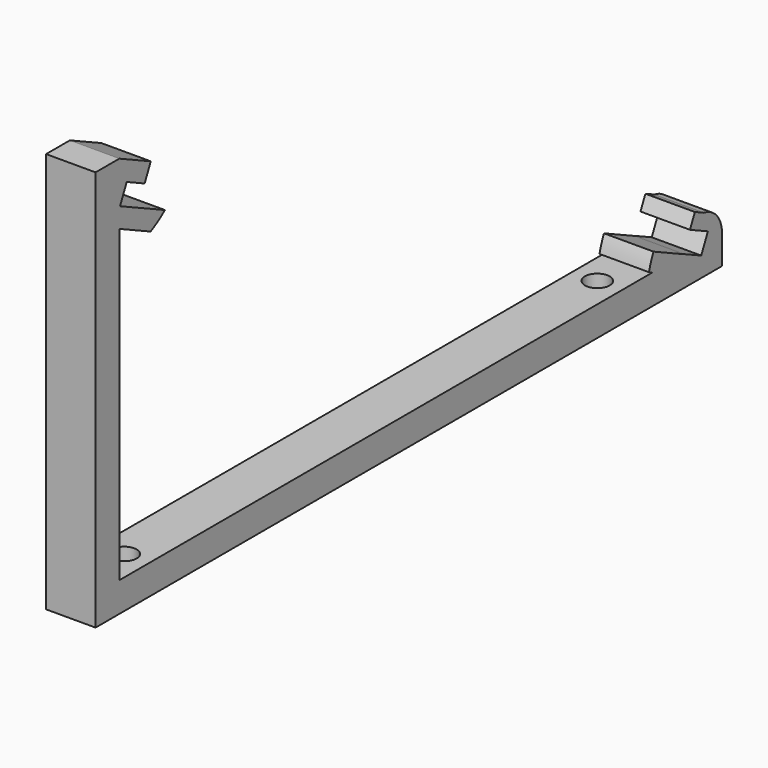
from build123d import *

# Parameters (mm, degrees)
CYLINDER031_R          = 2.5
CYLINDER031_DEPTH      = 14
CYLINDER030_R          = 2.5
CYLINDER030_DEPTH      = 14
BOX012_W               = 134
BOX012_H               = 152
BOX012_DEPTH           = 11
BOX012_ROLL_ANGLE      = 25.000043
BOX012_PLACEMENT_ANGLE = 180
BOX011_W               = 10
BOX011_H               = 10
BOX011_DEPTH           = 10
BOX010_W               = 140
BOX010_H               = 162
BOX010_DEPTH           = 4
BOX010_ROLL_ANGLE      = 25.000043
BOX010_PLACEMENT_ANGLE = 180
CYLINDER004_W          = 5.4
CYLINDER004_H          = 10
CYLINDER004_ANGLE      = 90
BOX009_W               = 10
BOX009_H               = 6
BOX009_DEPTH           = 25
BOX009_PLACEMENT_ANGLE = 65
BOX008_W               = 10
BOX008_H               = 6
BOX008_DEPTH           = 31.23
BOX007_W               = 10
BOX007_H               = 2
BOX007_DEPTH           = 165
BOX002_W               = 140
BOX002_H               = 162
BOX002_DEPTH           = 4
BOX002_ROLL_ANGLE      = 25.000043
BOX002_PLACEMENT_ANGLE = 180
CYLINDER001_W          = 18
CYLINDER001_H          = 10
CYLINDER001_ANGLE      = 65
CYLINDER_W             = 18
CYLINDER_H             = 10
CYLINDER_ANGLE         = 65
BOX004_W               = 10
BOX004_H               = 6
BOX004_DEPTH           = 81
BOX006_W               = 10
BOX006_H               = 6
BOX006_DEPTH           = 20
CYLINDER003_W          = 18
CYLINDER003_H          = 10
CYLINDER003_ANGLE      = 25
CYLINDER002_W          = 18
CYLINDER002_H          = 10
CYLINDER002_ANGLE      = 25
BOX043_W               = 10
BOX043_H               = 109
BOX043_DEPTH           = 4


with BuildPart() as m4s008:
    # Cylinder031 → Cylinder031 (new body)
    with BuildSketch(Plane(origin=(105, 264, 0), x_dir=(1, 0, 0), z_dir=(0, 0, 1))):
        Circle(CYLINDER031_R)
    extrude(amount=CYLINDER031_DEPTH)


with BuildPart() as fusion015:
    # Cylinder030 → Cylinder030 (new body)
    with BuildSketch(Plane(origin=(105, 144.5, 0), x_dir=(1, 0, 0), z_dir=(0, 0, 1))):
        Circle(CYLINDER030_R)
    extrude(amount=CYLINDER030_DEPTH)

    # Fusion015: union m4s008
    add(m4s008.part)


with BuildPart() as solar_panelcut:
    # Box012 → Box012 (new body)
    with BuildSketch(Plane.XY):
        with Locations((67, 76)):
            Rectangle(BOX012_W, BOX012_H)
    extrude(amount=BOX012_DEPTH)


with BuildPart() as solar_panelcut_1:
    # Box012 roll: moved
    add(solar_panelcut.part.rotate(Axis((0, 0, 0), (1, 0, 0)), BOX012_ROLL_ANGLE))


with BuildPart() as solar_panelcut_2:
    # Box012 placement: moved
    add(solar_panelcut_1.part.moved(Location((175, 279.468463, 10.113095))).rotate(Axis((175, 279.468463, 10.113095), (0, 0, 1)), BOX012_PLACEMENT_ANGLE))


with BuildPart() as cube:
    # Box011 → Box011 (new body)
    with BuildSketch(Plane(origin=(100, 289.23, 0), x_dir=(1, 0, 0), z_dir=(0, 0, 1))):
        with Locations((5, 5)):
            Rectangle(BOX011_W, BOX011_H)
    extrude(amount=BOX011_DEPTH)


with BuildPart() as solar_panel004:
    # Box010 → Box010 (new body)
    with BuildSketch(Plane.XY):
        with Locations((70, 81)):
            Rectangle(BOX010_W, BOX010_H)
    extrude(amount=BOX010_DEPTH)


with BuildPart() as solar_panel004_1:
    # Box010 roll: moved
    add(solar_panel004.part.rotate(Axis((0, 0, 0), (1, 0, 0)), BOX010_ROLL_ANGLE))


with BuildPart() as solar_panel004_2:
    # Box010 placement: moved
    add(solar_panel004_1.part.moved(Location((175, 284, 8))).rotate(Axis((175, 284, 8), (0, 0, 1)), BOX010_PLACEMENT_ANGLE))


with BuildPart() as cylinder004:
    # Cylinder004 → Cylinder004 (revolve)
    with BuildSketch(Plane(origin=(110, 283.83, 10), x_dir=(0, 0, 1), z_dir=(0, -1, 0))):
        with Locations((2.7, 5)):
            Rectangle(CYLINDER004_W, CYLINDER004_H)
    revolve(axis=Axis((110, 283.83, 10), (-1, 0, 0)), revolution_arc=CYLINDER004_ANGLE)


with BuildPart() as basesupport007:
    # Box009 → Box009 (new body)
    with BuildSketch(Plane.XY):
        with Locations((5, 3)):
            Rectangle(BOX009_W, BOX009_H)
    extrude(amount=BOX009_DEPTH)


with BuildPart() as basesupport007_1:
    # Box009 placement: moved
    add(basesupport007.part.moved(Location((100, 284.507102, 8.798097))).rotate(Axis((100, 284.507102, 8.798097), (1, 0, 0)), BOX009_PLACEMENT_ANGLE))


with BuildPart() as basesupport006:
    # Box008 → Box008 (new body)
    with BuildSketch(Plane(origin=(100, 258, 10), x_dir=(1, 0, 0), z_dir=(0, 1, 0))):
        with Locations((5, 3)):
            Rectangle(BOX008_W, BOX008_H)
    extrude(amount=BOX008_DEPTH)


with BuildPart() as basesupport005:
    # Box007 → Box007 (new body)
    with BuildSketch(Plane(origin=(100, 131, 6), x_dir=(1, 0, 0), z_dir=(0, 1, 0))):
        with Locations((5, 1)):
            Rectangle(BOX007_W, BOX007_H)
    extrude(amount=BOX007_DEPTH)


with BuildPart() as solar_panel001:
    # Box002 → Box002 (new body)
    with BuildSketch(Plane.XY):
        with Locations((70, 81)):
            Rectangle(BOX002_W, BOX002_H)
    extrude(amount=BOX002_DEPTH)


with BuildPart() as solar_panel001_1:
    # Box002 roll: moved
    add(solar_panel001.part.rotate(Axis((0, 0, 0), (1, 0, 0)), BOX002_ROLL_ANGLE))


with BuildPart() as solar_panel001_2:
    # Box002 placement: moved
    add(solar_panel001_1.part.moved(Location((175, 284, 8))).rotate(Axis((175, 284, 8), (0, 0, 1)), BOX002_PLACEMENT_ANGLE))


with BuildPart() as cylinder001:
    # Cylinder001 → Cylinder001 (revolve)
    with BuildSketch(Plane(origin=(101, 137, 72.5), x_dir=(0, 0, -1), z_dir=(0, -1, 0))):
        with Locations((9, 5)):
            Rectangle(CYLINDER001_W, CYLINDER001_H)
    revolve(axis=Axis((101, 137, 72.5), (1, 0, 0)), revolution_arc=CYLINDER001_ANGLE)


with BuildPart() as basesupport001:
    # Cylinder → Cylinder (revolve)
    with BuildSketch(Plane(origin=(101, 137, 85), x_dir=(0, 0, -1), z_dir=(0, -1, 0))):
        with Locations((9, 5)):
            Rectangle(CYLINDER_W, CYLINDER_H)
    revolve(axis=Axis((101, 137, 85), (1, 0, 0)), revolution_arc=CYLINDER_ANGLE)

    # Cut: cut Cylinder001
    add(cylinder001.part, mode=Mode.SUBTRACT)


with BuildPart() as basesupport001_1:
    # Cut placement: moved
    add(basesupport001.part.moved(Location((-1, 0, 0))))


with BuildPart() as basesupport003:
    # Box004 → Box004 (new body)
    with BuildSketch(Plane(origin=(100, 131, 4), x_dir=(1, 0, 0), z_dir=(0, 0, 1))):
        with Locations((5, 3)):
            Rectangle(BOX004_W, BOX004_H)
    extrude(amount=BOX004_DEPTH)

    # Fusion: union baseSupport001
    add(basesupport001_1.part)

    # Cut001: cut solar Panel001
    add(solar_panel001_2.part, mode=Mode.SUBTRACT)


with BuildPart() as basesupport004:
    # Box006 → Box006 (new body)
    with BuildSketch(Plane(origin=(100, 131, 10), x_dir=(1, 0, 0), z_dir=(0, 1, 0))):
        with Locations((5, 3)):
            Rectangle(BOX006_W, BOX006_H)
    extrude(amount=BOX006_DEPTH)


with BuildPart() as cylinder003:
    # Cylinder003 → Cylinder003 (revolve)
    with BuildSketch(Plane(origin=(110, 280.25, 6), x_dir=(0, -1, 0), z_dir=(0, 0, -1))):
        with Locations((9, 5)):
            Rectangle(CYLINDER003_W, CYLINDER003_H)
    revolve(axis=Axis((110, 280.25, 6), (-1, 0, 0)), revolution_arc=CYLINDER003_ANGLE)


with BuildPart() as obj1:
    # Cylinder002 → Cylinder002 (revolve)
    with BuildSketch(Plane(origin=(110, 288.25, 6), x_dir=(0, -1, 0), z_dir=(0, 0, -1))):
        with Locations((9, 5)):
            Rectangle(CYLINDER002_W, CYLINDER002_H)
    revolve(axis=Axis((110, 288.25, 6), (-1, 0, 0)), revolution_arc=CYLINDER002_ANGLE)

    # Cut002: cut Cylinder003
    add(cylinder003.part, mode=Mode.SUBTRACT)

    # Fusion001: union Cylinder004, baseSupport007, baseSupport006, baseSupport005, baseSupport003, baseSupport004
    add(cylinder004.part)
    add(basesupport007_1.part)
    add(basesupport006.part)
    add(basesupport005.part)
    add(basesupport003.part)
    add(basesupport004.part)

    # Cut003: cut solar Panel004
    add(solar_panel004_2.part, mode=Mode.SUBTRACT)

    # Cut004: cut Cube
    add(cube.part, mode=Mode.SUBTRACT)

    # Cut005: cut solar PanelCut
    add(solar_panelcut_2.part, mode=Mode.SUBTRACT)

    # Cut030: cut Fusion015
    add(fusion015.part, mode=Mode.SUBTRACT)


with BuildPart() as obj1_1:
    # Cut030 placement: moved
    add(obj1.part.moved(Location((-1, 0, 0))))


with BuildPart() as obj2:
    # Box043 → Box043 (new body)
    with BuildSketch(Plane(origin=(99, 150, 6), x_dir=(1, 0, 0), z_dir=(0, 0, 1))):
        with Locations((5, 54.5)):
            Rectangle(BOX043_W, BOX043_H)
    extrude(amount=BOX043_DEPTH)

    # Fusion029: union obj1
    add(obj1_1.part)


solid = obj2.part
